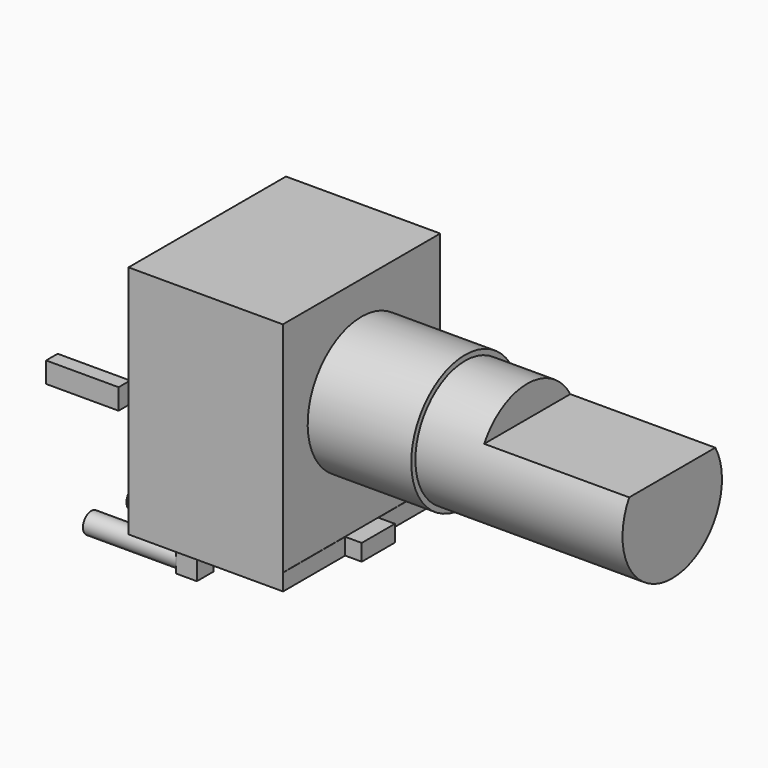
from build123d import *

# Parameters (mm, degrees)
SKETCH_W     = 7.45
SKETCH_H     = 11.35
PAD_DEPTH    = 9.5
SKETCH001_W  = 0.8
SKETCH001_H  = 9.5
PAD001_DEPTH = 0.01
SKETCH005_W  = 0.8
SKETCH005_H  = 2
PAD004_DEPTH = 0.8
SKETCH006_W  = 1
SKETCH006_H  = 0.7
PAD005_DEPTH = 3.5
SKETCH002_R  = 3
PAD002_DEPTH = 15
SKETCH003_W  = 3.35
SKETCH003_H  = 9.5
POCKET_DEPTH = 7
SKETCH004_R  = 3.25
PAD003_DEPTH = 5
SKETCH007_W  = 1
SKETCH007_H  = 1
PAD006_DEPTH = 2
SKETCH008_R  = 0.5
PAD007_DEPTH = 4.5


with BuildPart() as pad001:
    # Sketch → Pad (new body)
    with BuildSketch(Plane.XZ):
        with Locations((0.130678, -0.133685)):
            Rectangle(SKETCH_W, SKETCH_H)
    extrude(amount=PAD_DEPTH)

    # Sketch001 → Pad001 (new body)
    with BuildSketch(Plane(origin=(3.855678, 0, 0), x_dir=(0, 0, 1), z_dir=(1, 0, 0))):
        with Locations((-5.408685, 4.75)):
            Rectangle(SKETCH001_W, SKETCH001_H)
    extrude(amount=PAD001_DEPTH)


with BuildPart() as pad005:
    # Pad004 base: copy of Pad001
    add(pad001.part)

    # Sketch005 → Pad004 (new body)
    with BuildSketch(Plane(origin=(3.865678, 0, 0), x_dir=(0, 0, 1), z_dir=(1, 0, 0))):
        with Locations((-5.408685, 4.75)):
            Rectangle(SKETCH005_W, SKETCH005_H)
    extrude(amount=PAD004_DEPTH)

    # Sketch006 → Pad005 (new body)
    with BuildSketch(Plane(origin=(-3.594322, 0, 0), x_dir=(0, 0, -1), z_dir=(-1, 0, 0))):
        with Locations((-0.191315, 9.75)):
            Rectangle(SKETCH006_W, SKETCH006_H)
        with Locations((-0.191315, -0.25)):
            Rectangle(SKETCH006_W, SKETCH006_H)
    extrude(amount=PAD005_DEPTH)


with BuildPart() as fusion:
    # Pad002 base: copy of Pad001
    add(pad001.part)

    # Sketch002 → Pad002 (new body)
    with BuildSketch(Plane(origin=(3.855678, 0, 0), x_dir=(0, 0, 1), z_dir=(1, 0, 0))):
        with Locations((0.691315, 4.75)):
            Circle(SKETCH002_R)
    extrude(amount=PAD002_DEPTH)

    # Sketch003 → Pocket (cut)
    with BuildSketch(Plane(origin=(18.855678, 0, 0), x_dir=(0, 0, 1), z_dir=(1, 0, 0))):
        with Locations((3.866315, 4.75)):
            Rectangle(SKETCH003_W, SKETCH003_H)
    extrude(amount=-POCKET_DEPTH, mode=Mode.SUBTRACT)

    # Sketch004 → Pad003 (new body)
    with BuildSketch(Plane(origin=(3.855678, 0, 0), x_dir=(0, 0, 1), z_dir=(1, 0, 0))):
        with Locations((0.691315, 4.75)):
            Circle(SKETCH004_R)
    extrude(amount=PAD003_DEPTH)

    # Sketch007 → Pad006 (new body)
    with BuildSketch(Plane(origin=(0, 0, -5.808685), x_dir=(1, 0, 0), z_dir=(0, 0, -1))):
        with Locations((-2.094322, 7.375)):
            Rectangle(SKETCH007_W, SKETCH007_H)
        with Locations((-2.094322, 4.75)):
            Rectangle(SKETCH007_W, SKETCH007_H)
        with Locations((-2.094322, 2.125)):
            Rectangle(SKETCH007_W, SKETCH007_H)
    extrude(amount=PAD006_DEPTH)

    # Sketch008 → Pad007 (new body)
    with BuildSketch(Plane(origin=(-2.594322, 0, 0), x_dir=(0, 0, -1), z_dir=(-1, 0, 0))):
        with Locations((7.308685, 4.75)):
            Circle(SKETCH008_R)
        with Locations((7.308685, 7.375)):
            Circle(SKETCH008_R)
        with Locations((7.308685, 2.125)):
            Circle(SKETCH008_R)
    extrude(amount=PAD007_DEPTH)

    # Fusion: union Pad005
    add(pad005.part)


solid = fusion.part
